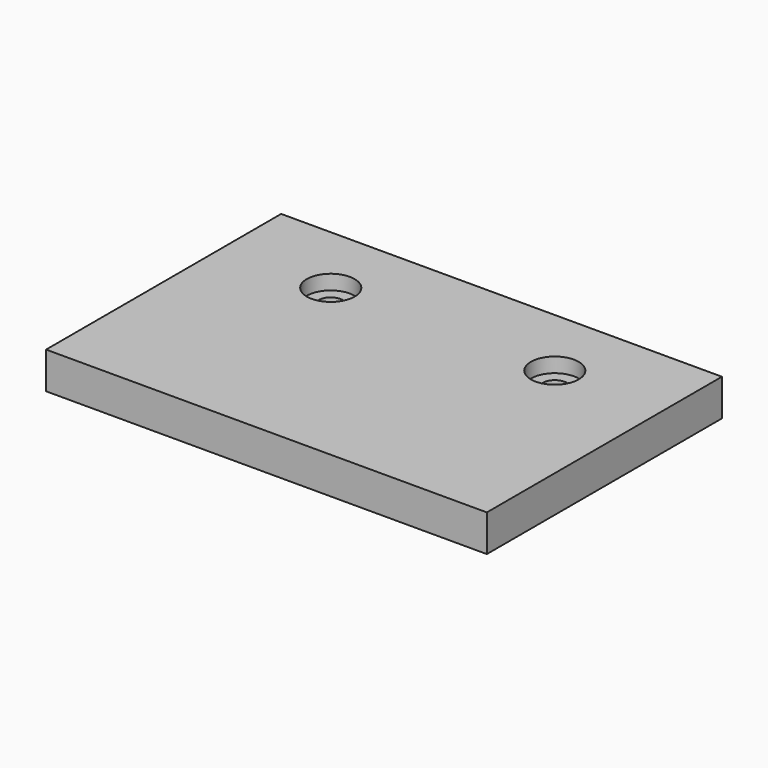
from build123d import *

# Parameters (mm, degrees)
F0_W     = 60
F0_H     = 40
F0_R     = 3.25
F1_DEPTH = 5
F0_R_2   = 1.65
F2_DEPTH = 3


with BuildPart() as f1:
    # F0 (on Top) → F1 (new body)
    with BuildSketch(Plane.XY):
        Rectangle(F0_W, F0_H)
        with Locations((-15.25, 10)):
            Circle(F0_R, mode=Mode.SUBTRACT)
        with Locations((15.25, 10)):
            Circle(F0_R, mode=Mode.SUBTRACT)
    extrude(amount=F1_DEPTH)

    # F0 (on Top) → F2 (join)
    with BuildSketch(Plane.XY):
        with Locations((15.25, 10)):
            Circle(F0_R)
        with Locations((15.25, 10)):
            Circle(F0_R_2, mode=Mode.SUBTRACT)
        with Locations((-15.25, 10)):
            Circle(F0_R)
        with Locations((-15.25, 10)):
            Circle(F0_R_2, mode=Mode.SUBTRACT)
    extrude(amount=F2_DEPTH)


solid = f1.part
